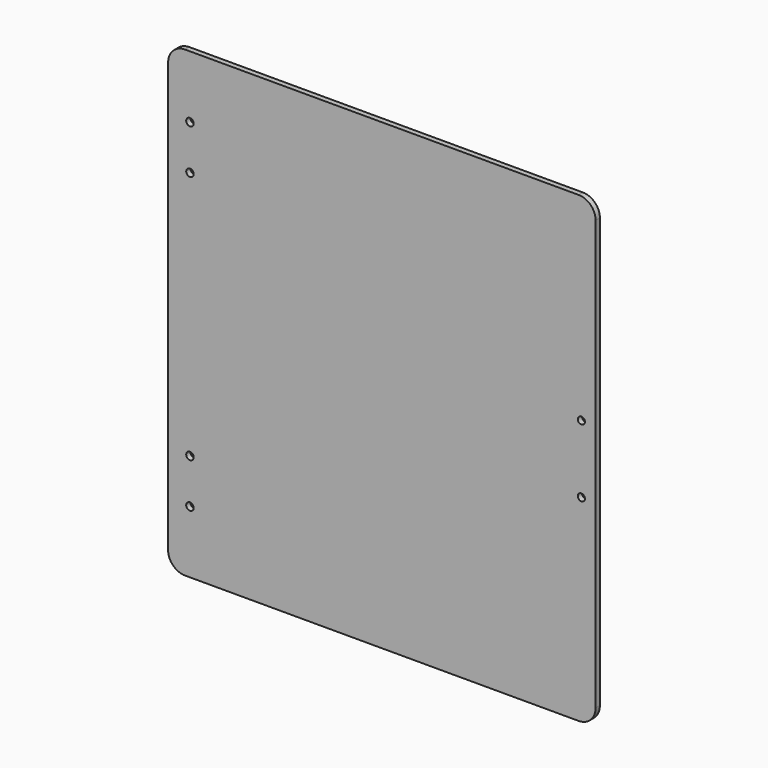
from build123d import *

# Parameters (mm, degrees)
SKETCH_W        = 240
SKETCH_H        = 260
PAD_DEPTH       = 3
SKETCH001_R     = 2.1
POCKET_DEPTH    = 5
FILLET_R        = 9.5
SKETCH002_R     = 2
POCKET001_DEPTH = 3.001


with BuildPart() as part:
    # Sketch → Pad (new body)
    with BuildSketch(Plane.XZ):
        with Locations((120, 130)):
            Rectangle(SKETCH_W, SKETCH_H)
    extrude(amount=PAD_DEPTH)

    # Sketch001 (on Face6 of Pad) → Pocket (cut)
    with BuildSketch(Plane.XZ.offset(3)):
        with Locations((12.25, 225)):
            Circle(SKETCH001_R)
        with Locations((12.25, 200)):
            Circle(SKETCH001_R)
        with Locations((12.25, 60)):
            Circle(SKETCH001_R)
        with Locations((12.25, 35)):
            Circle(SKETCH001_R)
    extrude(amount=-POCKET_DEPTH, mode=Mode.SUBTRACT)

    # Fillet
    fillet_edges = [part.edges().sort_by_distance(p)[0] for p in [
        (0, -1.5, 260),
        (240, -1.5, 260),
        (240, -1.5, 0),
        (0, -1.5, 0),
    ]]
    fillet(fillet_edges, radius=FILLET_R)

    # Sketch002 (on Face5 of Fillet) → Pocket001 (cut, through all)
    with BuildSketch(Plane.XZ.offset(3)):
        with Locations((232, 149)):
            Circle(SKETCH002_R)
        with Locations((232, 111)):
            Circle(SKETCH002_R)
    extrude(amount=-POCKET001_DEPTH, mode=Mode.SUBTRACT)


solid = part.part
